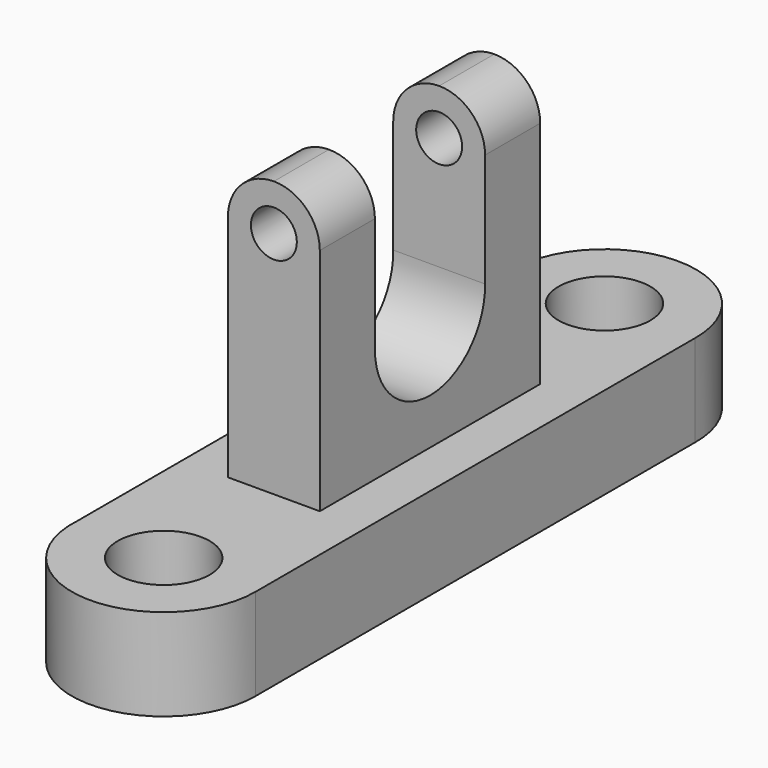
from build123d import *

# Parameters (mm, degrees)
F1_DEPTH  = 12.7
F2_R      = 6.35
F3_DEPTH  = 31.242
F4_W      = 6.35
F4_H      = 38.1
F5_DEPTH  = 38.1
F7_DEPTH  = 61.468
F9_DEPTH  = 25.4
F10_R     = 3.175
F11_DEPTH = 50.8


with BuildPart() as f1:
    # F0 (on Top) → F1 (new body)
    with BuildSketch(Plane.XY):
        with BuildLine():
            Line((12.7, -30.8671), (12.697872, 45.100048))
            ThreePointArc((12.697872, 45.100048), (-0.230077, 58.03046), (-12.681114, 44.640199))
            Line((-12.681114, 44.640199), (-12.681114, -30.175112))
            Line((-12.681114, -30.175112), (-12.681114, -31.559801))
            ThreePointArc((-12.681114, -31.559801), (0.346479, -43.562729), (12.7, -30.8671))
        make_face()
        with BuildLine():
            Line((-12.681114, -31.559801), (-12.681114, -30.175112))
            ThreePointArc((-12.681114, -30.175112), (-12.7, -30.867456), (-12.681114, -31.559801))
        make_face()
    extrude(amount=F1_DEPTH)

    # F2 (on face) → F3 (cut)
    with BuildSketch(Plane.XY.offset(12.7)):
        with Locations((0, -30.867456)):
            Circle(F2_R)
        with Locations((0, 45.332544)):
            Circle(F2_R)
    extrude(amount=-F3_DEPTH, mode=Mode.SUBTRACT)

    # F4 (on face) → F5 (join)
    with BuildSketch(Plane.XY.offset(12.7)):
        with Locations((3.175, 7.232544)):
            Rectangle(F4_W, F4_H)
        with Locations((-3.175, 7.232544)):
            Rectangle(F4_W, F4_H)
    extrude(amount=F5_DEPTH)

    # F6 (on face) → F7 (cut)
    with BuildSketch(Plane.XZ.offset(11.817456)):
        with BuildLine():
            ThreePointArc((-6.35, 44.45), (-4.490128, 48.940128), (0, 50.8))
            Line((0, 50.8), (-6.35, 50.8))
            Line((-6.35, 50.8), (-6.35, 44.45))
        make_face()
        with BuildLine():
            ThreePointArc((0, 50.8), (4.490128, 48.940128), (6.35, 44.45))
            Line((6.35, 44.45), (6.35, 50.8))
            Line((6.35, 50.8), (0, 50.8))
        make_face()
    extrude(amount=-F7_DEPTH, mode=Mode.SUBTRACT)

    # F8 (on face) → F9 (cut)
    with BuildSketch(Plane.YZ.offset(6.35)):
        with BuildLine():
            Line((-2.292456, 44.45), (-2.292456, 28.575))
            ThreePointArc((-2.292456, 28.575), (7.32078, 19.050409), (16.755909, 28.751465))
            Line((16.755909, 28.751465), (16.755909, 53.781159))
            Line((16.755909, 53.781159), (-2.292456, 53.781159))
            Line((-2.292456, 53.781159), (-2.292456, 44.45))
        make_face()
    extrude(amount=-F9_DEPTH, mode=Mode.SUBTRACT)

    # F10 (on face) → F11 (cut)
    with BuildSketch(Plane.XZ.offset(11.817456)):
        with Locations((0, 44.45)):
            Circle(F10_R)
    extrude(amount=-F11_DEPTH, mode=Mode.SUBTRACT)


solid = f1.part
